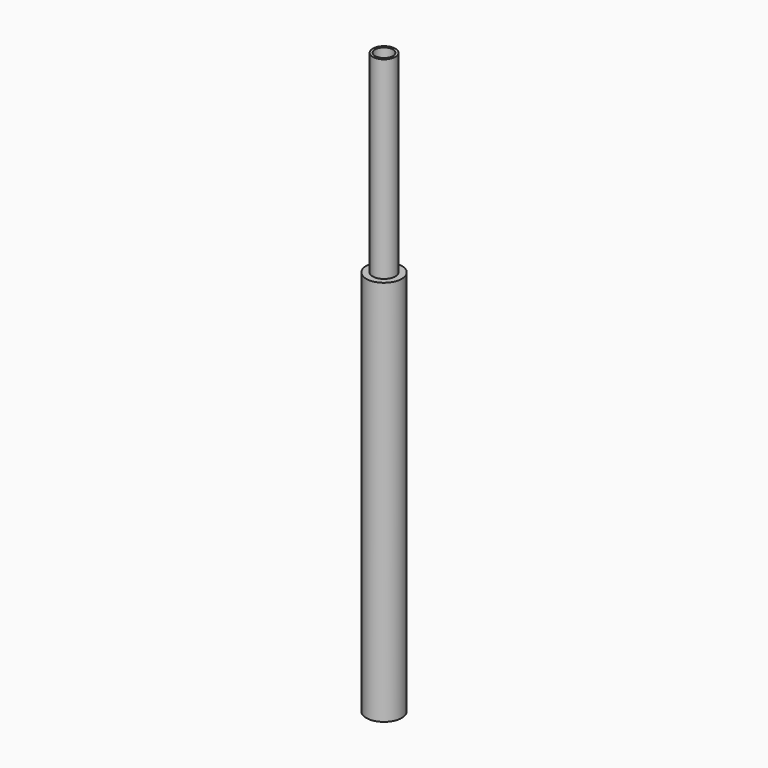
from build123d import *

# Parameters (mm, degrees)
F0_W     = 8.89
F0_H     = 152.4
F2_R     = 6.985
F3_DEPTH = 457.201


with BuildPart() as f1:
    # F0 (on Front) → F1 (revolve)
    with BuildSketch(Plane.XZ):
        Polygon((0, 304.8), (0, 0), (13.97, 0), (13.97, 304.8), (8.89, 304.8), align=None)
        with Locations((4.445, 381)):
            Rectangle(F0_W, F0_H)
    revolve(axis=Axis((0, 0, 152.4), (0, 0, 1)))

    # F2 (on Top) → F3 (cut, through all)
    with BuildSketch(Plane.XY):
        Circle(F2_R)
    extrude(amount=F3_DEPTH, mode=Mode.SUBTRACT)


solid = f1.part
